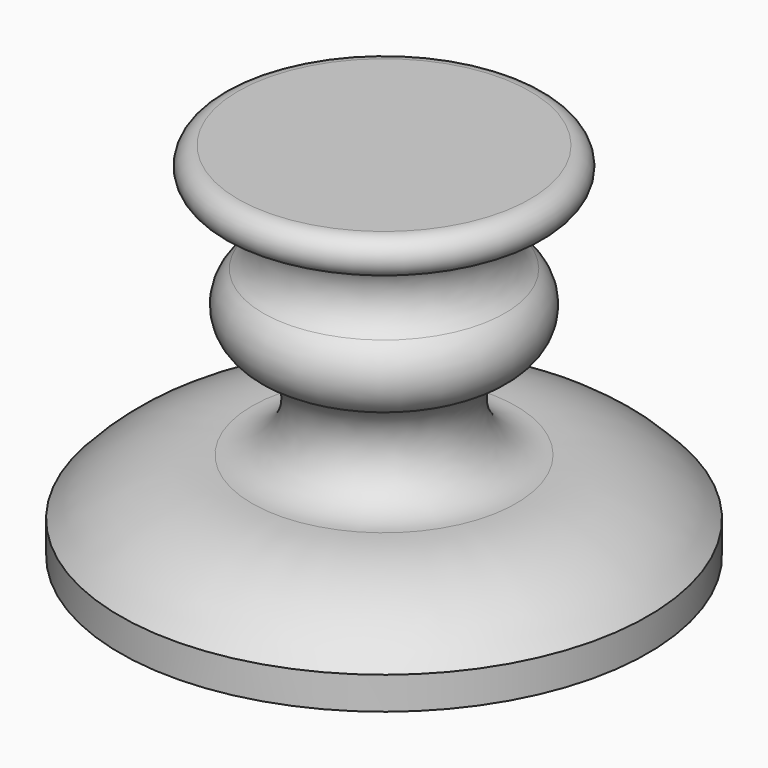
from build123d import *


with BuildPart() as f1:
    # F0 (on Front) → F1 (revolve)
    with BuildSketch(Plane.XZ):
        with BuildLine():
            Line((0, 0), (-24.228189, 0))
            ThreePointArc((-24.228189, 0), (-27.251564, -3.023375), (-24.228189, -6.04675))
            ThreePointArc((-24.228189, -6.04675), (-17.882746, -10.553541), (-20.04785, -18.029377))
            ThreePointArc((-20.04785, -18.029377), (-22.497267, -24.189915), (-18.41354, -29.412468))
            ThreePointArc((-18.41354, -29.412468), (-13.491565, -38.782533), (-21.90149, -45.208815))
            ThreePointArc((-21.90149, -45.208815), (-33.916157, -47.36402), (-43.782905, -54.550424))
            Line((-43.782905, -54.550424), (-43.782905, -59.953451))
            Line((-43.782905, -59.953451), (0, -59.953451))
            Line((0, -59.953451), (0, 0))
        make_face()
        with BuildLine():
            Line((0, 0), (-24.228189, 0))
            ThreePointArc((-24.228189, 0), (-27.251564, -3.023375), (-24.228189, -6.04675))
            ThreePointArc((-24.228189, -6.04675), (-17.882746, -10.553541), (-20.04785, -18.029377))
            ThreePointArc((-20.04785, -18.029377), (-22.497267, -24.189915), (-18.41354, -29.412468))
            ThreePointArc((-18.41354, -29.412468), (-13.491565, -38.782533), (-21.90149, -45.208815))
            ThreePointArc((-21.90149, -45.208815), (-33.916157, -47.36402), (-43.782905, -54.550424))
            Line((-43.782905, -54.550424), (-43.782905, -59.953451))
            Line((-43.782905, -59.953451), (0, -59.953451))
            Line((0, -59.953451), (0, 0))
        make_face()
    revolve(axis=Axis((0, 0, -29.976726), (0, 0, -1)))


solid = f1.part
